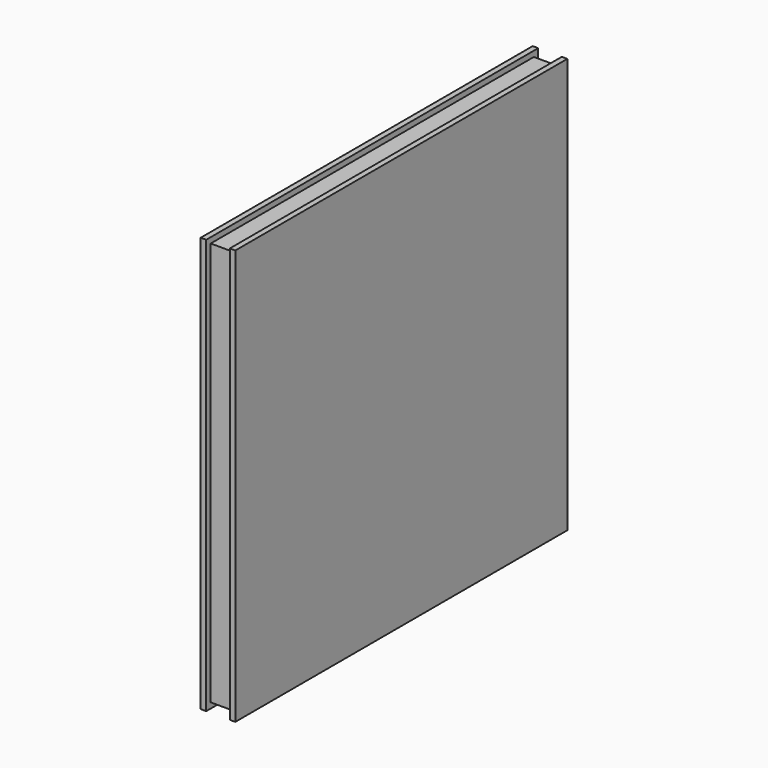
from build123d import *

# Parameters (mm, degrees)
F0_W     = 152.4
F0_H     = 152.4
F1_DEPTH = 2.032
F2_W     = 148.336
F2_H     = 148.336
F3_DEPTH = 8.636
F4_W     = 148.336
F4_H     = 148.336
F5_DEPTH = 2.032


with BuildPart() as f1:
    # F0 (on Right) → F1 (new body)
    with BuildSketch(Plane.YZ):
        with Locations((76.2, 76.2)):
            Rectangle(F0_W, F0_H)
    extrude(amount=F1_DEPTH)

    # F2 (on face) → F3 (join)
    with BuildSketch(Plane.YZ.offset(2.032)):
        with Locations((76.2, 76.2)):
            Rectangle(F2_W, F2_H)
    extrude(amount=F3_DEPTH)

    # F4 (on face) → F5 (join)
    with BuildSketch(Plane.YZ.offset(10.668)):
        Polygon((0, 152.4), (0, 2.032), (0, 0), (152.4, 0), (152.4, 152.4), align=None)
        with Locations((76.2, 76.2)):
            Rectangle(F4_W, F4_H, mode=Mode.SUBTRACT)
        with Locations((76.2, 76.2)):
            Rectangle(F4_W, F4_H)
    extrude(amount=F5_DEPTH)


solid = f1.part
